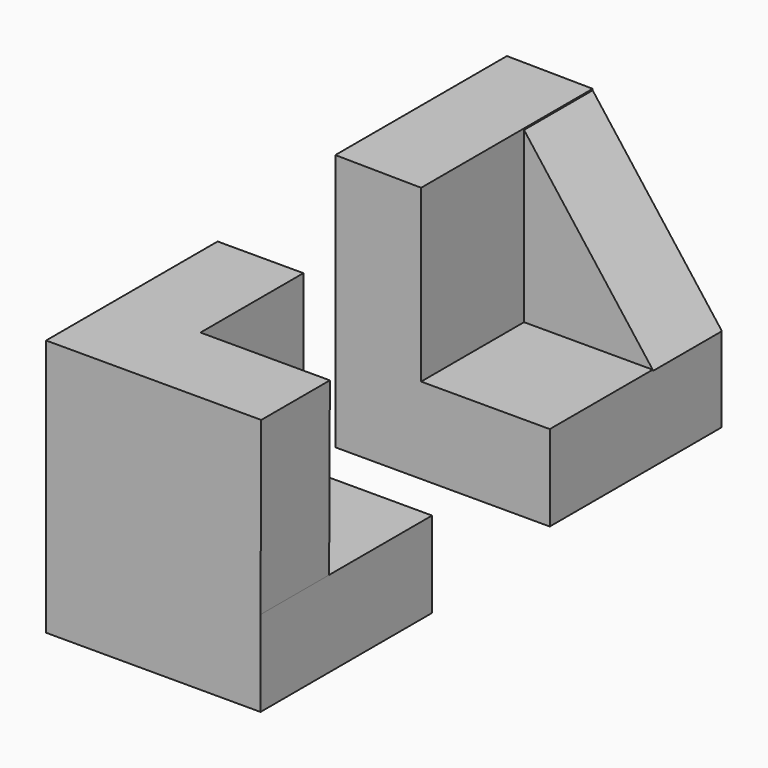
from build123d import *

# Parameters (mm, degrees)
F1_DEPTH = 50
F3_DEPTH = 20
F5_DEPTH = 50
F7_DEPTH = 20


with BuildPart() as f1:
    # F0 (on Front) → F1 (new body)
    with BuildSketch(Plane.XZ):
        Polygon((0, 60), (0, 0), (50, 0), (50, 20), (19.998844, 20), (19.998844, 59.784958), align=None)
    extrude(amount=F1_DEPTH)

    # F2 (on face) → F3 (join)
    with BuildSketch(Plane.XZ):
        Polygon((50.13939, 19.829139), (19.998844, 59.458375), (19.998844, 20), (50, 20), (50, 19.829139), align=None)
    extrude(amount=F3_DEPTH)


with BuildPart() as f5:
    # F4 (on Front) → F5 (new body)
    with BuildSketch(Plane.XZ):
        Polygon((-47.450976, 0), (-67.450976, 0), (-67.450976, -60), (-17.450976, -60), (-17.450976, -40), (-47.450976, -40), align=None)
    extrude(amount=F5_DEPTH)

    # F6 (on face) → F7 (join)
    with BuildSketch(Plane.XZ.offset(50)):
        Polygon((-17.279677, 0), (-47.450976, 0), (-47.450976, -40), (-17.450976, -40), align=None)
    extrude(amount=-F7_DEPTH)


solid = Compound([f1.part, f5.part])
